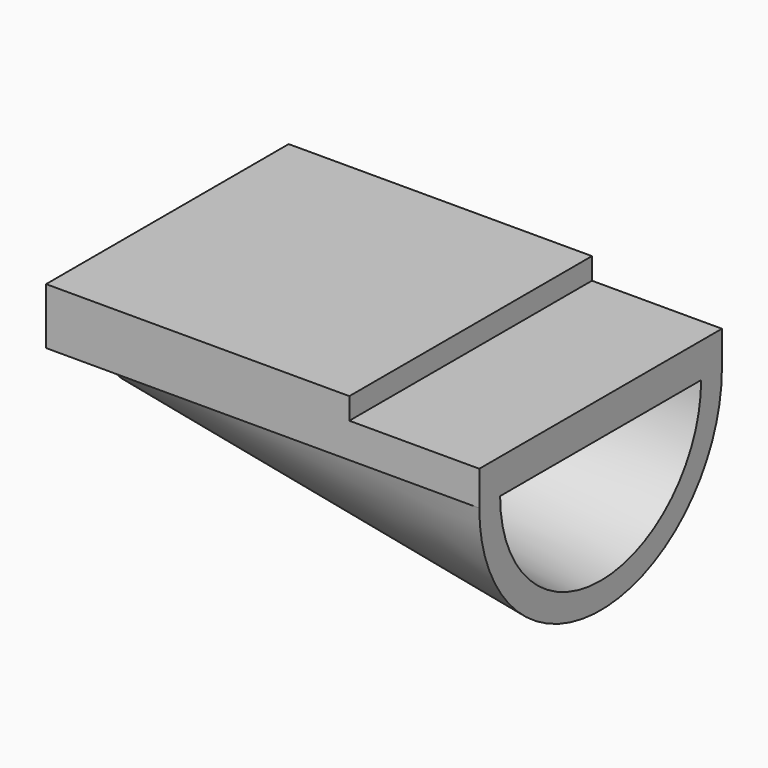
from build123d import *

# Parameters (mm, degrees)
F1_DEPTH = 35
F3_ANGLE = -180


with BuildPart() as f1:
    # F0 (on Front) → F1 (new body)
    with BuildSketch(Plane.XZ):
        Polygon((0, -4), (0, 0), (-15, 0), (-15, 2.5), (-50, 2.5), (-50, -4), align=None)
    extrude(amount=F1_DEPTH)

    # F2 (on face) → F3 (revolve)
    with BuildSketch(Plane(origin=(0, 0, -4), x_dir=(1, 0, 0), z_dir=(0, 0, -1))):
        Polygon((-50, 7.5), (0, 0), (0, 3), (-50, 10.5), align=None)
    revolve(axis=Axis((-28.842393, -17.5, -4), (1, 0, 0)), revolution_arc=F3_ANGLE)


solid = f1.part
